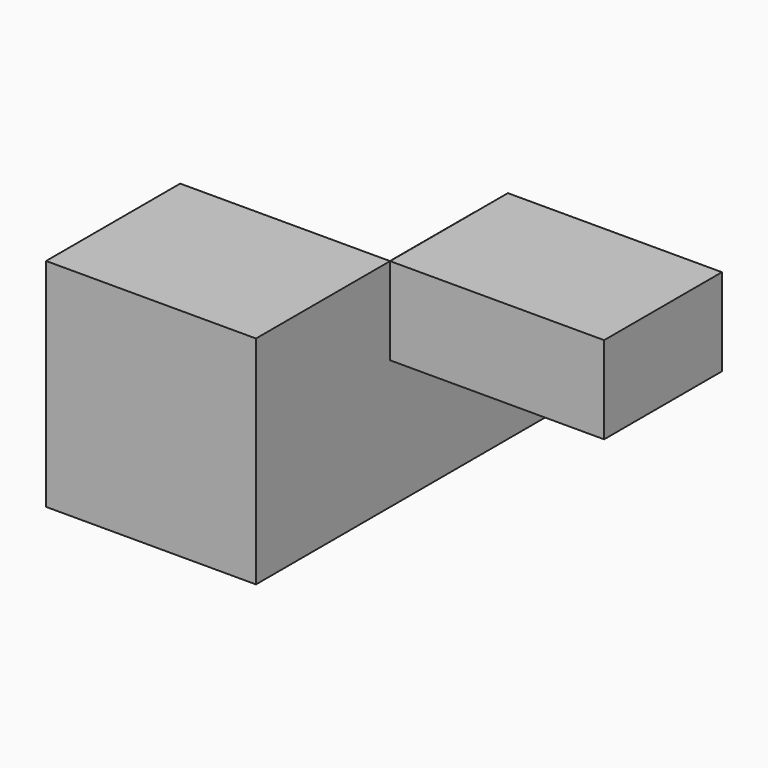
from build123d import *

# Parameters (mm, degrees)
F0_W     = 82.195289433
F0_H     = 84.7819373012
F1_DEPTH = 65.6348839402
F2_W     = 41.0976447165
F2_H     = 50.5926012993
F3_DEPTH = 93.1568071246
F4_W     = 57.664565742
F4_H     = 34.1893360019
F5_DEPTH = 83.8187858462


with BuildPart() as f1:
    # F0 (on Front) → F1 (new body)
    with BuildSketch(Plane.XZ):
        with Locations((41.0976447165, -8.2016326487)):
            Rectangle(F0_W, F0_H)
    extrude(amount=F1_DEPTH)

    # F2 (on face) → F3 (join)
    with BuildSketch(Plane(origin=(0, 0, 0), x_dir=(-1, 0, 0), z_dir=(0, 1, 0))):
        with Locations((-61.6464670748, -25.2963006496)):
            Rectangle(F2_W, F2_H)
    extrude(amount=F3_DEPTH)


with BuildPart() as f5:
    # F4 (on face) → F5 (new body)
    with BuildSketch(Plane.YZ.offset(82.195289433)):
        with Locations((28.832282871, 17.0946680009)):
            Rectangle(F4_W, F4_H)
    extrude(amount=F5_DEPTH)


solid = Compound([f1.part, f5.part])
